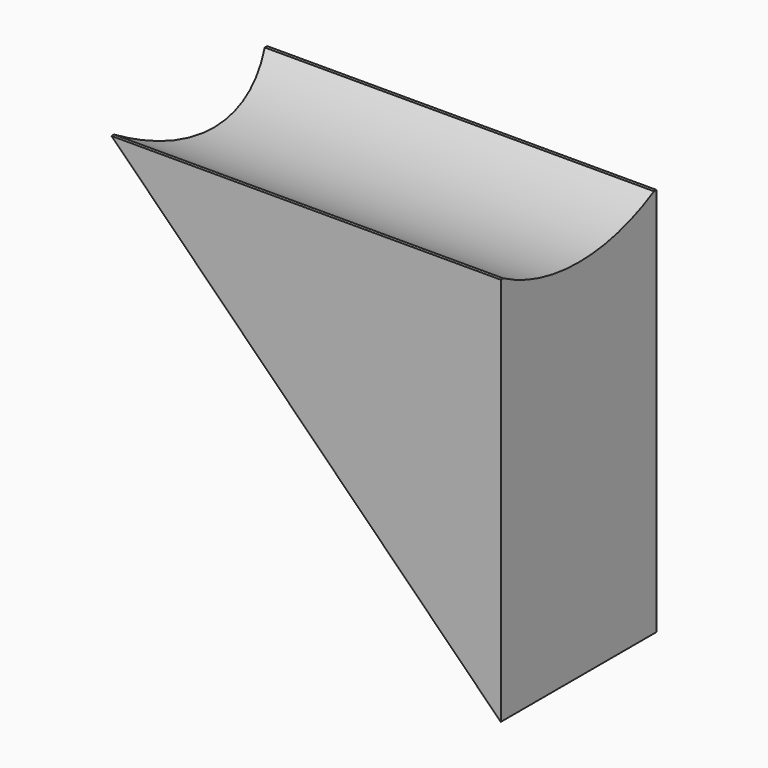
from build123d import *

# Parameters (mm, degrees)
F1_DEPTH = 6.35
F2_R     = 3.175
F3_DEPTH = 1.27
F5_DEPTH = 25.4


with BuildPart() as f1:
    # F0 (on Front) → F1 (new body, symmetric)
    with BuildSketch(Plane.XZ):
        Polygon((-25.4, 25.4), (0, 0), (0, 25.4), align=None)
    extrude(amount=F1_DEPTH, both=True)

    # F2 (on face) → F3 (cut)
    with BuildSketch(Plane(origin=(0, 0, 0), x_dir=(0.7071067812, 0, -0.7071067812), z_dir=(-0.7071067812, 0, -0.7071067812))):
        with Locations((-13.97, 0)):
            Circle(F2_R)
        with Locations((-6.35, 0)):
            Circle(F2_R)
    extrude(amount=-F3_DEPTH, mode=Mode.SUBTRACT)

    # F4 (on face) → F5 (cut)
    with BuildSketch(Plane.YZ):
        with BuildLine():
            ThreePointArc((6.1483610621, 25.4), (10.9401596307, 30.0624684299), (12.7, 36.5125))
            ThreePointArc((12.7, 36.5125), (-6.4500315701, 47.4526596307), (-6.1483610621, 25.4))
            Line((-6.1483610621, 25.4), (6.1483610621, 25.4))
        make_face()
        with BuildLine():
            Line((6.1483610621, 25.4), (-6.1483610621, 25.4))
            ThreePointArc((-6.1483610621, 25.4), (0, 23.8125), (6.1483610621, 25.4))
        make_face()
    extrude(amount=-F5_DEPTH, mode=Mode.SUBTRACT)


solid = f1.part
